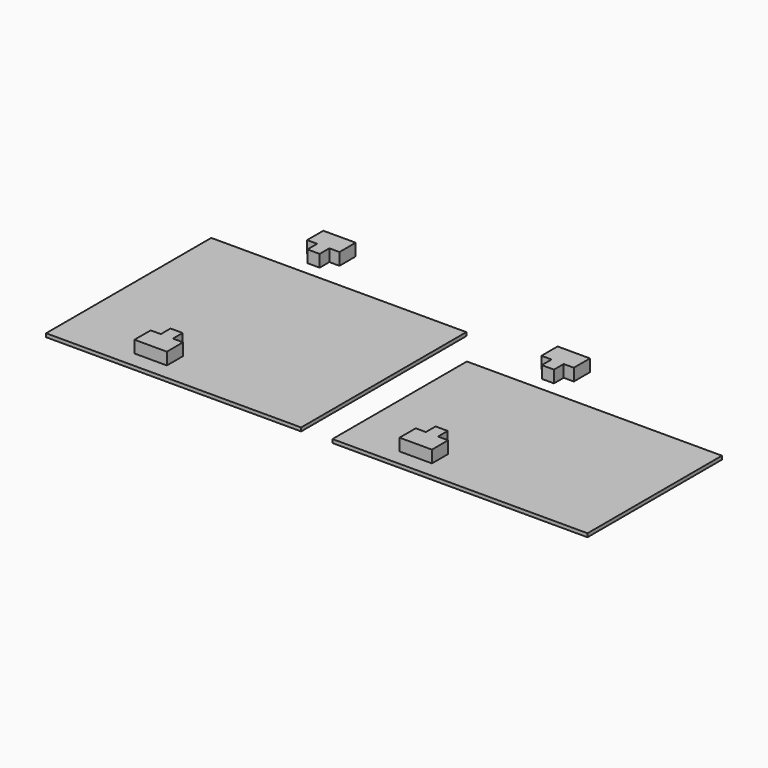
from build123d import *

# Parameters (mm, degrees)
F0_W      = 3200.4
F0_H      = 2590.8
F1_DEPTH  = 44.45
F2_W      = 3200.4
F2_H      = 2108.2
F3_DEPTH  = 44.45
F7_W      = 152.4
F7_H      = 152.4
F8_DEPTH  = 152.4
F9_W      = 152.4
F9_H      = 152.4
F10_DEPTH = 152.4


with BuildPart() as f1:
    # F0 (on Top) → F1 (new body)
    with BuildSketch(Plane.XY):
        with Locations((-339.315792, 1.97465)):
            Rectangle(F0_W, F0_H)
    extrude(amount=F1_DEPTH)


with BuildPart() as f3:
    # F2 (on Top) → F3 (new body)
    with BuildSketch(Plane.XY):
        with Locations((3254.261732, -239.762257)):
            Rectangle(F2_W, F2_H)
    extrude(amount=F3_DEPTH)


with BuildPart() as f8:
    # F7 (on offset) → F8 (new body)
    with BuildSketch(Plane.XY.offset(304.8)):
        Polygon((-275.698421, 1482.79465), (-682.098421, 1482.79465), (-682.098421, 1228.79465), (-555.098421, 1228.79465), (-402.698421, 1228.79465), (-275.698421, 1228.79465), align=None)
        with Locations((-478.898421, 1152.59465)):
            Rectangle(F7_W, F7_H)
        Polygon((-555.098421, -1224.84535), (-682.098421, -1224.84535), (-682.098421, -1478.84535), (-275.698421, -1478.84535), (-275.698421, -1224.84535), (-402.698421, -1224.84535), align=None)
        with Locations((-478.898421, -1148.64535)):
            Rectangle(F7_W, F7_H)
    extrude(amount=F8_DEPTH)


with BuildPart() as f10:
    # F9 (on offset) → F10 (new body)
    with BuildSketch(Plane.XY.offset(304.8)):
        Polygon((2644.378057, 745.757743), (2771.378057, 745.757743), (2923.778057, 745.757743), (3050.778057, 745.757743), (3050.778057, 999.757743), (2644.378057, 999.757743), align=None)
        with Locations((2847.578057, 669.557743)):
            Rectangle(F9_W, F9_H)
        with Locations((2847.578057, -1149.082257)):
            Rectangle(F9_W, F9_H)
        Polygon((2923.778057, -1225.282257), (2771.378057, -1225.282257), (2644.378057, -1225.282257), (2644.378057, -1479.282257), (3050.778057, -1479.282257), (3050.778057, -1225.282257), align=None)
    extrude(amount=F10_DEPTH)


solid = Compound([f1.part, f3.part, f8.part, f10.part])
